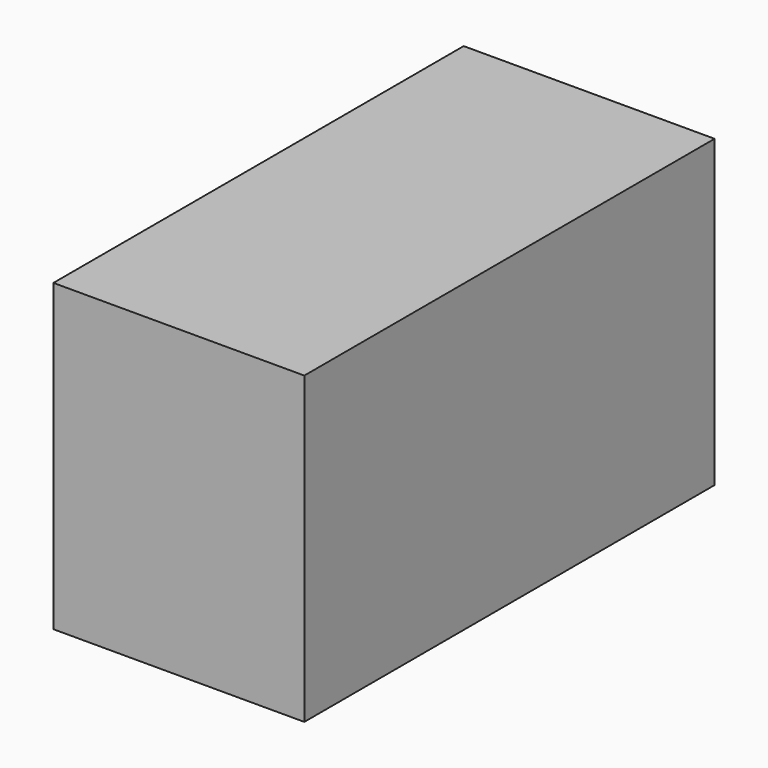
from build123d import *

# Parameters (mm, degrees)
F0_W     = 86.4951871336
F0_H     = 80.115608871
F1_DEPTH = 95.8
F2_DEPTH = 25
F3_DEPTH = 81


with BuildPart() as f1:
    # F0 (on Front) → F1 (new body)
    with BuildSketch(Plane.XZ):
        with Locations((2.1268483251, 1.9725449383)):
            Rectangle(F0_W, F0_H)
    extrude(amount=F1_DEPTH)

    # F2 (add): a face of the model
    f2_faces = [f1.faces().sort_by_distance(p)[0] for p in [
        (2.1268483251, -47.9, 42.0303493738),
    ]]
    extrude(f2_faces, amount=F2_DEPTH)

    # F3 (add): a face of the model
    f3_faces = [f1.faces().sort_by_distance(p)[0] for p in [
        (2.1268483251, -95.8, 14.4725449383),
    ]]
    extrude(f3_faces, amount=F3_DEPTH)


solid = f1.part
